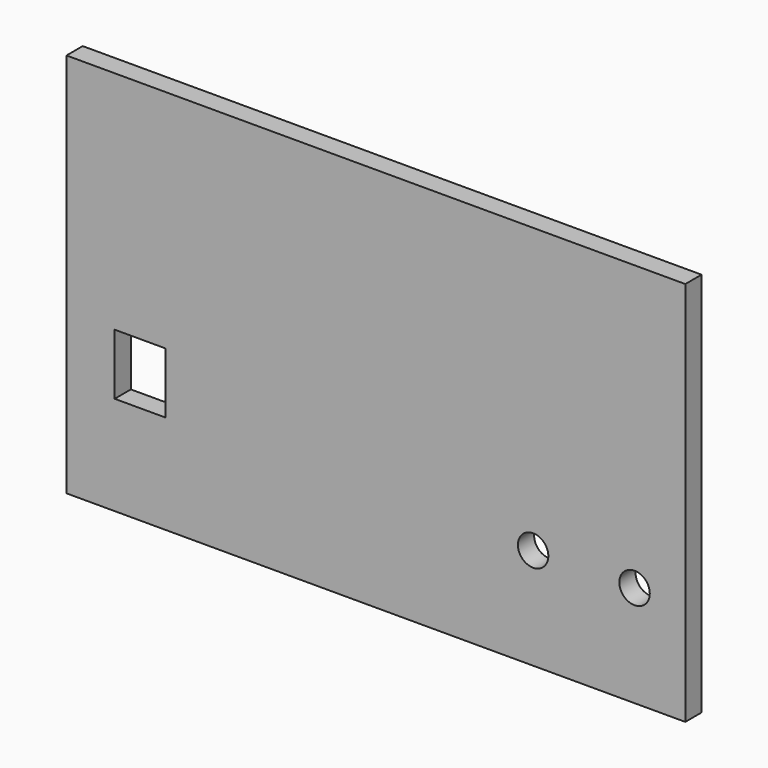
from build123d import *

# Parameters (mm, degrees)
SKETCH002_W   = 122
SKETCH002_H   = 76
PAD001_DEPTH  = 4
SKETCH003_W   = 10
SKETCH003_H   = 12
POCKET_DEPTH  = 4.001
SKETCH008_R   = 3
HOLE002_DEPTH = 4.001


with BuildPart() as part:
    # Sketch002 → Pad001 (new body)
    with BuildSketch(Plane.XZ):
        with Locations((65, 38)):
            Rectangle(SKETCH002_W, SKETCH002_H)
    extrude(amount=PAD001_DEPTH)

    # Sketch003 (on Face6 of Pad001) → Pocket (cut, through all)
    with BuildSketch(Plane.XZ.offset(4)):
        with Locations((18.5, 25.5)):
            Rectangle(SKETCH003_W, SKETCH003_H)
    extrude(amount=-POCKET_DEPTH, mode=Mode.SUBTRACT)

    # Sketch008 (on Face4 of Pocket) → Hole002 (cut, through all)
    with BuildSketch(Plane(origin=(0, 0, 0), x_dir=(1, 0, 0), z_dir=(0, 1, 0))):
        with Locations((116, -20)):
            Circle(SKETCH008_R)
        with Locations((96, -20)):
            Circle(SKETCH008_R)
    extrude(amount=-HOLE002_DEPTH, mode=Mode.SUBTRACT)


solid = part.part
